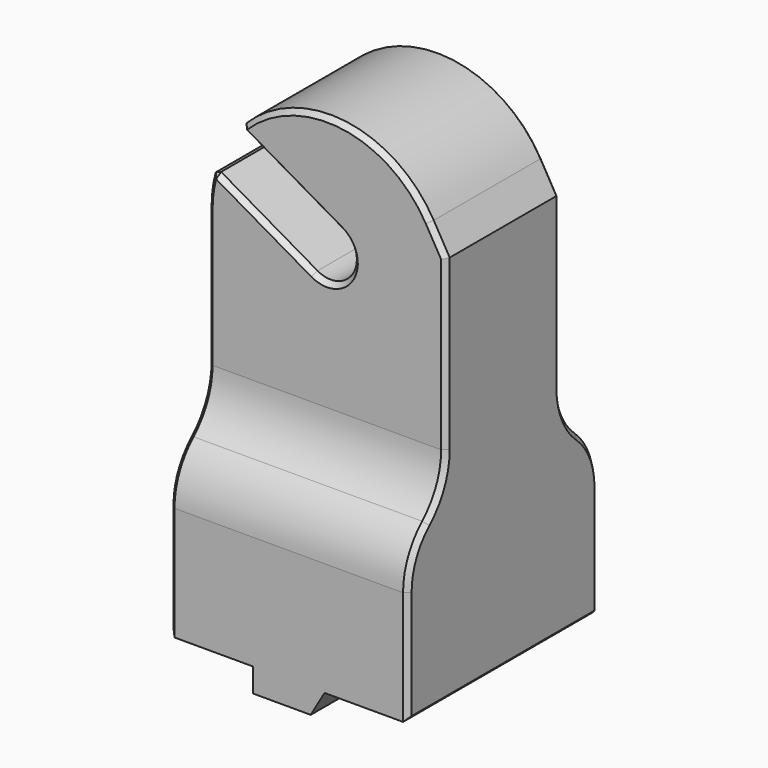
from build123d import *

# Parameters (mm, degrees)
PAD059_DEPTH         = 10
POCKET157_DEPTH      = 10.001
POCKET157_DEPTH_BACK = 10.001
SKETCH188_R          = 2.1
HOLE055_DEPTH        = 25
HOLE055_TIPS_R       = 2.1
SKETCH_W             = 10
SKETCH_H             = 5
POCKET_DEPTH         = 3
CHAMFER001_SIZE      = 0.4


with BuildPart() as part:
    # Sketch189 → Pad059 (new body, symmetric)
    with BuildSketch(Plane.XZ):
        with BuildLine():
            Line((-10, 0), (-10, 30))
            ThreePointArc((-9.548077, 32.972243), (-9.886374, 31.503202), (-10, 30))
            Line((-1.1, 28.094744), (-9.548077, 32.972243))
            ThreePointArc((-1.1, 28.094744), (1.905256, 28.9), (1.1, 31.905256))
            Line((-7.348077, 36.782755), (1.1, 31.905256))
            ThreePointArc((8.660254, 35), (1.1068, 39.938561), (-7.348077, 36.782755))
            Line((8.660254, 35), (10, 32.679492))
            Line((10, 0), (10, 32.679492))
            Line((10, 0), (3, 0))
            Line((3, 0), (1.845299, -2))
            Line((1.845299, -2), (-3, -2))
            Line((-3, -2), (-3, 0))
            Line((-10, 0), (-3, 0))
        make_face()
    extrude(amount=PAD059_DEPTH, both=True)

    # Sketch190 → Pocket157 (cut, two sides)
    with BuildSketch(Plane.YZ) as pocket157_sk:
        with BuildLine():
            Line((6, 18.5), (6, 40))
            Line((6, 40), (-6, 40))
            Line((-6, 40), (-6, 18.5))
            ThreePointArc((-8, 14.027864), (-6.522774, 16.05051), (-6, 18.5))
            ThreePointArc((-8, 14.027864), (-9.477226, 12.005218), (-10, 9.555728))
            Line((-10, 9.555728), (-10, 3))
            Line((-10, 3), (-11, 3))
            Line((-11, 3), (-11, 41))
            Line((-11, 41), (11, 41))
            Line((11, 3), (11, 41))
            Line((10, 3), (11, 3))
            Line((10, 9.555728), (10, 3))
            ThreePointArc((10, 9.555728), (9.477226, 12.005218), (8, 14.027864))
            ThreePointArc((6, 18.5), (6.522774, 16.05051), (8, 14.027864))
        make_face()
    extrude(amount=-POCKET157_DEPTH, mode=Mode.SUBTRACT)
    extrude(pocket157_sk.sketch, amount=POCKET157_DEPTH_BACK, mode=Mode.SUBTRACT)

    # Sketch188 → Hole055 (cut)
    with BuildSketch(Plane(origin=(0, 0, -2), x_dir=(-1, 0, 0), z_dir=(0, 0, -1))):
        Circle(SKETCH188_R)
    extrude(amount=-HOLE055_DEPTH, mode=Mode.SUBTRACT)

    # Hole055 tips → Hole055 tip 1 section 0
    with BuildSketch(Plane(origin=(0, 0, 23), x_dir=(-1, 0, 0), z_dir=(0, 0, -1)), mode=Mode.PRIVATE) as hole055_tip_1_s0:
        Circle(HOLE055_TIPS_R)
    loft([hole055_tip_1_s0.sketch, Vertex(0, 0, 24.261807)], mode=Mode.SUBTRACT)

    # Sketch → Pocket (cut, symmetric)
    with BuildSketch(Plane.YZ):
        with Locations((0, -2.5)):
            Rectangle(SKETCH_W, SKETCH_H)
    extrude(amount=POCKET_DEPTH, both=True, mode=Mode.SUBTRACT)

    # Chamfer001
    chamfer001_edges = [part.edges().sort_by_distance(p)[0] for p in [
        (10, 6, 25.589746),
        (10, 6.522774, 16.05051),
        (10, 9.477226, 12.005218),
        (10, 10, 6.277864),
        (10, 10, 1.5),
        (10, 0, 0),
        (10, -10, 6.277864),
        (10, -9.477226, 12.005218),
        (10, -10, 1.5),
        (10, -6.522774, 16.05051),
        (10, -6, 25.589746),
        (-10, 0, 0),
        (-10, 10, 1.5),
        (-10, 10, 6.277864),
        (-10, 9.477226, 12.005218),
        (-10, 6.522774, 16.05051),
        (-10, 6, 24.25),
        (-9.886374, 6, 31.503202),
        (-9.886374, -6, 31.503202),
        (-10, -6, 24.25),
        (-10, -6.522774, 16.05051),
        (-10, -9.477226, 12.005218),
        (-10, -10, 6.277864),
        (-10, -10, 1.5),
        (5, 6, 38.660254),
        (9.330127, 6, 33.839746),
        (-4.010763, 6, 39.160446),
        (-4.010763, -6, 39.160446),
        (5, -6, 38.660254),
        (9.330127, -6, 33.839746),
        (-7.348077, 0, 36.782755),
        (-9.548077, 0, 32.972243),
        (-3.124038, 6, 34.344006),
        (1.905256, 6, 28.9),
        (-5.324038, 6, 30.533494),
        (-3.124038, -6, 34.344006),
        (1.905256, -6, 28.9),
        (-5.324038, -6, 30.533494),
    ]]
    chamfer(chamfer001_edges, length=CHAMFER001_SIZE)


with BuildPart() as part_1:
    # Body022039 placement: moved
    add(part.part.moved(Location((-113, -113, -52))))


solid = part_1.part
